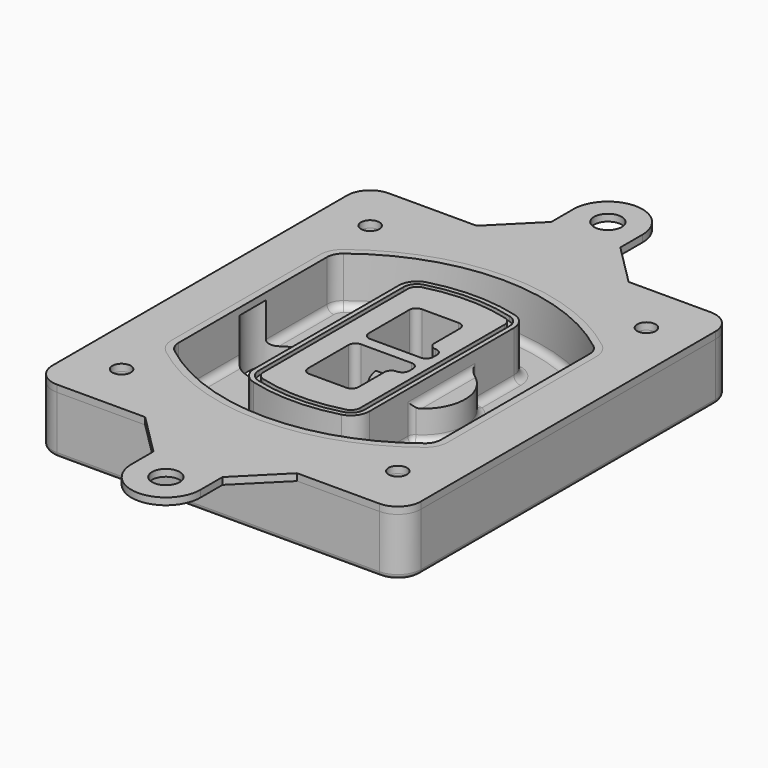
from build123d import *

# Parameters (mm, degrees)
F0_R      = 4
F1_DEPTH  = 25
F2_DEPTH  = 3
F3_DEPTH  = 18
F5_DEPTH  = 21
F6_DEPTH  = 2
F8_DEPTH  = 20
F9_DEPTH  = 16
F10_DEPTH = 25
F7_R      = 6
F7_R_2    = 4
F11_DEPTH = 6
F13_DEPTH = 9
F14_R     = 3
F15_R     = 2
F16_R     = 6
F16_R_2   = 4
F17_DEPTH = 3


with BuildPart() as f1:
    # F0 (on Top) → F1 (new body)
    with BuildSketch(Plane.XY):
        with BuildLine():
            ThreePointArc((-80, -80), (-77.0710678119, -87.0710678119), (-70, -90))
            Line((-70, -90), (70, -90))
            ThreePointArc((70, -90), (77.0710678119, -87.0710678119), (80, -80))
            Line((80, -80), (80, 80))
            ThreePointArc((80, 80), (77.0710678119, 87.0710678119), (70, 90))
            Line((70, 90), (-70, 90))
            ThreePointArc((-70, 90), (-77.0710678119, 87.0710678119), (-80, 80))
            Line((-80, 80), (-80, -80))
        make_face()
        with Locations((-60, -67.5)):
            Circle(F0_R, mode=Mode.SUBTRACT)
        with Locations((60, -67.5)):
            Circle(F0_R, mode=Mode.SUBTRACT)
        with Locations((-60, 67.5)):
            Circle(F0_R, mode=Mode.SUBTRACT)
        with BuildLine():
            ThreePointArc((-64, 40.2934422872), (-62.5820384798, 46.4328484224), (-58.6153846154, 51.3286200352))
            ThreePointArc((-58.6153846154, 51.3286200352), (0, 71.5), (58.6153846154, 51.3286200352))
            ThreePointArc((58.6153846154, 51.3286200352), (62.5820384798, 46.4328484224), (64, 40.2934422872))
            Line((64, 40.2934422872), (64, -40.2934422872))
            ThreePointArc((64, -40.2934422872), (62.5820384798, -46.4328484224), (58.6153846154, -51.3286200352))
            ThreePointArc((58.6153846154, -51.3286200352), (0, -71.5), (-58.6153846154, -51.3286200352))
            ThreePointArc((-58.6153846154, -51.3286200352), (-62.5820384798, -46.4328484224), (-64, -40.2934422872))
            Line((-64, -40.2934422872), (-64, 40.2934422872))
        make_face(mode=Mode.SUBTRACT)
        with Locations((60, 67.5)):
            Circle(F0_R, mode=Mode.SUBTRACT)
        with BuildLine():
            ThreePointArc((58.6153846154, 51.3286200352), (0, 71.5), (-58.6153846154, 51.3286200352))
            ThreePointArc((-58.6153846154, 51.3286200352), (-62.5820384798, 46.4328484224), (-64, 40.2934422872))
            Line((-64, 40.2934422872), (-64, -40.2934422872))
            ThreePointArc((-64, -40.2934422872), (-62.5820384798, -46.4328484224), (-58.6153846154, -51.3286200352))
            ThreePointArc((-58.6153846154, -51.3286200352), (0, -71.5), (58.6153846154, -51.3286200352))
            ThreePointArc((58.6153846154, -51.3286200352), (62.5820384798, -46.4328484224), (64, -40.2934422872))
            Line((64, -40.2934422872), (64, 40.2934422872))
            ThreePointArc((64, 40.2934422872), (62.5820384798, 46.4328484224), (58.6153846154, 51.3286200352))
        make_face()
        with BuildLine():
            Line((-60, -40.2934422872), (-60, 40.2934422872))
            ThreePointArc((-60, 40.2934422872), (-58.9871703427, 44.6787323838), (-56.1538461538, 48.1757121072))
            ThreePointArc((-56.1538461538, 48.1757121072), (0, 67.5), (56.1538461538, 48.1757121072))
            ThreePointArc((56.1538461538, 48.1757121072), (58.9871703427, 44.6787323838), (60, 40.2934422872))
            Line((60, 40.2934422872), (60, -40.2934422872))
            ThreePointArc((60, -40.2934422872), (58.9871703427, -44.6787323838), (56.1538461538, -48.1757121072))
            ThreePointArc((56.1538461538, -48.1757121072), (0, -67.5), (-56.1538461538, -48.1757121072))
            ThreePointArc((-56.1538461538, -48.1757121072), (-58.9871703427, -44.6787323838), (-60, -40.2934422872))
        make_face(mode=Mode.SUBTRACT)
        with BuildLine():
            ThreePointArc((-56.1538461538, 48.1757121072), (-58.9871703427, 44.6787323838), (-60, 40.2934422872))
            Line((-60, 40.2934422872), (-60, -40.2934422872))
            ThreePointArc((-60, -40.2934422872), (-58.9871703427, -44.6787323838), (-56.1538461538, -48.1757121072))
            ThreePointArc((-56.1538461538, -48.1757121072), (0, -67.5), (56.1538461538, -48.1757121072))
            ThreePointArc((56.1538461538, -48.1757121072), (58.9871703427, -44.6787323838), (60, -40.2934422872))
            Line((60, -40.2934422872), (60, 40.2934422872))
            ThreePointArc((60, 40.2934422872), (58.9871703427, 44.6787323838), (56.1538461538, 48.1757121072))
            ThreePointArc((56.1538461538, 48.1757121072), (0, 67.5), (-56.1538461538, 48.1757121072))
        make_face()
        with BuildLine():
            ThreePointArc((54.3076923077, 45.8110311612), (56.2910192399, 43.3631453548), (57, 40.2934422872))
            Line((57, 40.2934422872), (57, -40.2934422872))
            ThreePointArc((57, -40.2934422872), (56.2910192399, -43.3631453548), (54.3076923077, -45.8110311612))
            ThreePointArc((54.3076923077, -45.8110311612), (0, -64.5), (-54.3076923077, -45.8110311612))
            ThreePointArc((-54.3076923077, -45.8110311612), (-56.2910192399, -43.3631453548), (-57, -40.2934422872))
            Line((-57, -40.2934422872), (-57, 40.2934422872))
            ThreePointArc((-57, 40.2934422872), (-56.2910192399, 43.3631453548), (-54.3076923077, 45.8110311612))
            ThreePointArc((-54.3076923077, 45.8110311612), (0, 64.5), (54.3076923077, 45.8110311612))
        make_face(mode=Mode.SUBTRACT)
        with BuildLine():
            Line((57, -40.2934422872), (57, 40.2934422872))
            ThreePointArc((57, 40.2934422872), (56.2910192399, 43.3631453548), (54.3076923077, 45.8110311612))
            ThreePointArc((54.3076923077, 45.8110311612), (0, 64.5), (-54.3076923077, 45.8110311612))
            ThreePointArc((-54.3076923077, 45.8110311612), (-56.2910192399, 43.3631453548), (-57, 40.2934422872))
            Line((-57, 40.2934422872), (-57, -40.2934422872))
            ThreePointArc((-57, -40.2934422872), (-56.2910192399, -43.3631453548), (-54.3076923077, -45.8110311612))
            ThreePointArc((-54.3076923077, -45.8110311612), (0, -64.5), (54.3076923077, -45.8110311612))
            ThreePointArc((54.3076923077, -45.8110311612), (56.2910192399, -43.3631453548), (57, -40.2934422872))
        make_face()
    extrude(amount=-F1_DEPTH)

    # F0 (on Top) → F2 (join)
    with BuildSketch(Plane.XY):
        with BuildLine():
            ThreePointArc((-56.1538461538, 48.1757121072), (-58.9871703427, 44.6787323838), (-60, 40.2934422872))
            Line((-60, 40.2934422872), (-60, -40.2934422872))
            ThreePointArc((-60, -40.2934422872), (-58.9871703427, -44.6787323838), (-56.1538461538, -48.1757121072))
            ThreePointArc((-56.1538461538, -48.1757121072), (0, -67.5), (56.1538461538, -48.1757121072))
            ThreePointArc((56.1538461538, -48.1757121072), (58.9871703427, -44.6787323838), (60, -40.2934422872))
            Line((60, -40.2934422872), (60, 40.2934422872))
            ThreePointArc((60, 40.2934422872), (58.9871703427, 44.6787323838), (56.1538461538, 48.1757121072))
            ThreePointArc((56.1538461538, 48.1757121072), (0, 67.5), (-56.1538461538, 48.1757121072))
        make_face()
        with BuildLine():
            ThreePointArc((54.3076923077, 45.8110311612), (56.2910192399, 43.3631453548), (57, 40.2934422872))
            Line((57, 40.2934422872), (57, -40.2934422872))
            ThreePointArc((57, -40.2934422872), (56.2910192399, -43.3631453548), (54.3076923077, -45.8110311612))
            ThreePointArc((54.3076923077, -45.8110311612), (0, -64.5), (-54.3076923077, -45.8110311612))
            ThreePointArc((-54.3076923077, -45.8110311612), (-56.2910192399, -43.3631453548), (-57, -40.2934422872))
            Line((-57, -40.2934422872), (-57, 40.2934422872))
            ThreePointArc((-57, 40.2934422872), (-56.2910192399, 43.3631453548), (-54.3076923077, 45.8110311612))
            ThreePointArc((-54.3076923077, 45.8110311612), (0, 64.5), (54.3076923077, 45.8110311612))
        make_face(mode=Mode.SUBTRACT)
    extrude(amount=F2_DEPTH)

    # F0 (on Top) → F3 (cut)
    with BuildSketch(Plane.XY):
        with BuildLine():
            Line((57, -40.2934422872), (57, 40.2934422872))
            ThreePointArc((57, 40.2934422872), (56.2910192399, 43.3631453548), (54.3076923077, 45.8110311612))
            ThreePointArc((54.3076923077, 45.8110311612), (0, 64.5), (-54.3076923077, 45.8110311612))
            ThreePointArc((-54.3076923077, 45.8110311612), (-56.2910192399, 43.3631453548), (-57, 40.2934422872))
            Line((-57, 40.2934422872), (-57, -40.2934422872))
            ThreePointArc((-57, -40.2934422872), (-56.2910192399, -43.3631453548), (-54.3076923077, -45.8110311612))
            ThreePointArc((-54.3076923077, -45.8110311612), (0, -64.5), (54.3076923077, -45.8110311612))
            ThreePointArc((54.3076923077, -45.8110311612), (56.2910192399, -43.3631453548), (57, -40.2934422872))
        make_face()
    extrude(amount=-F3_DEPTH, mode=Mode.SUBTRACT)

    # F4 (on face) → F5 (join, through all)
    with BuildSketch(Plane.XY.offset(3)):
        with BuildLine():
            ThreePointArc((-25, -39.2465276821), (-23.3511545998, -44.1109737193), (-19.0842911877, -46.9702398883))
            ThreePointArc((-19.0842911877, -46.9702398883), (0, -49.5), (19.0842911877, -46.9702398883))
            ThreePointArc((19.0842911877, -46.9702398883), (23.3511545998, -44.1109737193), (25, -39.2465276821))
            Line((25, -39.2465276821), (25, 39.2465276821))
            ThreePointArc((25, 39.2465276821), (23.3511545998, 44.1109737193), (19.0842911877, 46.9702398883))
            ThreePointArc((19.0842911877, 46.9702398883), (0, 49.5), (-19.0842911877, 46.9702398883))
            ThreePointArc((-19.0842911877, 46.9702398883), (-23.3511545998, 44.1109737193), (-25, 39.2465276821))
            Line((-25, 39.2465276821), (-25, -39.2465276821))
        make_face()
        with BuildLine():
            ThreePointArc((18.5632183908, 45.0393118368), (21.7633659499, 42.89486221), (23, 39.2465276821))
            Line((23, 39.2465276821), (23, -39.2465276821))
            ThreePointArc((23, -39.2465276821), (21.7633659499, -42.89486221), (18.5632183908, -45.0393118368))
            ThreePointArc((18.5632183908, -45.0393118368), (0, -47.5), (-18.5632183908, -45.0393118368))
            ThreePointArc((-18.5632183908, -45.0393118368), (-21.7633659499, -42.89486221), (-23, -39.2465276821))
            Line((-23, -39.2465276821), (-23, 39.2465276821))
            ThreePointArc((-23, 39.2465276821), (-21.7633659499, 42.89486221), (-18.5632183908, 45.0393118368))
            ThreePointArc((-18.5632183908, 45.0393118368), (0, 47.5), (18.5632183908, 45.0393118368))
        make_face(mode=Mode.SUBTRACT)
        with BuildLine():
            Line((23, -39.2465276821), (23, 39.2465276821))
            ThreePointArc((23, 39.2465276821), (21.7633659499, 42.89486221), (18.5632183908, 45.0393118368))
            ThreePointArc((18.5632183908, 45.0393118368), (0, 47.5), (-18.5632183908, 45.0393118368))
            ThreePointArc((-18.5632183908, 45.0393118368), (-21.7633659499, 42.89486221), (-23, 39.2465276821))
            Line((-23, 39.2465276821), (-23, -39.2465276821))
            ThreePointArc((-23, -39.2465276821), (-21.7633659499, -42.89486221), (-18.5632183908, -45.0393118368))
            ThreePointArc((-18.5632183908, -45.0393118368), (0, -47.5), (18.5632183908, -45.0393118368))
            ThreePointArc((18.5632183908, -45.0393118368), (21.7633659499, -42.89486221), (23, -39.2465276821))
        make_face()
        with BuildLine():
            ThreePointArc((18.0421455939, 43.1083837852), (20.1755772999, 41.6787507007), (21, 39.2465276821))
            Line((21, 39.2465276821), (21, -39.2465276821))
            ThreePointArc((21, -39.2465276821), (20.1755772999, -41.6787507007), (18.0421455939, -43.1083837852))
            ThreePointArc((18.0421455939, -43.1083837852), (0, -45.5), (-18.0421455939, -43.1083837852))
            ThreePointArc((-18.0421455939, -43.1083837852), (-20.1755772999, -41.6787507007), (-21, -39.2465276821))
            Line((-21, -39.2465276821), (-21, 39.2465276821))
            ThreePointArc((-21, 39.2465276821), (-20.1755772999, 41.6787507007), (-18.0421455939, 43.1083837852))
            ThreePointArc((-18.0421455939, 43.1083837852), (0, 45.5), (18.0421455939, 43.1083837852))
        make_face(mode=Mode.SUBTRACT)
        with BuildLine():
            Line((21, -39.2465276821), (21, 39.2465276821))
            ThreePointArc((21, 39.2465276821), (20.1755772999, 41.6787507007), (18.0421455939, 43.1083837852))
            ThreePointArc((18.0421455939, 43.1083837852), (0, 45.5), (-18.0421455939, 43.1083837852))
            ThreePointArc((-18.0421455939, 43.1083837852), (-20.1755772999, 41.6787507007), (-21, 39.2465276821))
            Line((-21, 39.2465276821), (-21, -39.2465276821))
            ThreePointArc((-21, -39.2465276821), (-20.1755772999, -41.6787507007), (-18.0421455939, -43.1083837852))
            ThreePointArc((-18.0421455939, -43.1083837852), (0, -45.5), (18.0421455939, -43.1083837852))
            ThreePointArc((18.0421455939, -43.1083837852), (20.1755772999, -41.6787507007), (21, -39.2465276821))
        make_face()
        with BuildLine():
            Line((-8, -2.5), (14, -2.5))
            ThreePointArc((14, -2.5), (16.1213203436, -3.3786796564), (17, -5.5))
            Line((17, -5.5), (17, -7.5))
            ThreePointArc((17, -7.5), (16.1213203436, -9.6213203436), (14, -10.5))
            ThreePointArc((14, -10.5), (11.8786796564, -11.3786796564), (11, -13.5))
            Line((11, -13.5), (11, -27.5))
            ThreePointArc((11, -27.5), (10.1213203436, -29.6213203436), (8, -30.5))
            Line((8, -30.5), (-8, -30.5))
            ThreePointArc((-8, -30.5), (-10.1213203436, -29.6213203436), (-11, -27.5))
            Line((-11, -27.5), (-11, -5.5))
            ThreePointArc((-11, -5.5), (-10.1213203436, -3.3786796564), (-8, -2.5))
        make_face(mode=Mode.SUBTRACT)
        with BuildLine():
            ThreePointArc((-8, 2.5), (-10.1213203436, 3.3786796564), (-11, 5.5))
            Line((-11, 5.5), (-11, 27.5))
            ThreePointArc((-11, 27.5), (-10.1213203436, 29.6213203436), (-8, 30.5))
            Line((-8, 30.5), (8, 30.5))
            ThreePointArc((8, 30.5), (10.1213203436, 29.6213203436), (11, 27.5))
            Line((11, 27.5), (11, 13.5))
            ThreePointArc((11, 13.5), (11.8786796564, 11.3786796564), (14, 10.5))
            ThreePointArc((14, 10.5), (16.1213203436, 9.6213203436), (17, 7.5))
            Line((17, 7.5), (17, 5.5))
            ThreePointArc((17, 5.5), (16.1213203436, 3.3786796564), (14, 2.5))
            Line((14, 2.5), (-8, 2.5))
        make_face(mode=Mode.SUBTRACT)
    extrude(amount=-F5_DEPTH)

    # F4 (on face) → F6 (cut)
    with BuildSketch(Plane.XY.offset(3)):
        with BuildLine():
            Line((23, -39.2465276821), (23, 39.2465276821))
            ThreePointArc((23, 39.2465276821), (21.7633659499, 42.89486221), (18.5632183908, 45.0393118368))
            ThreePointArc((18.5632183908, 45.0393118368), (0, 47.5), (-18.5632183908, 45.0393118368))
            ThreePointArc((-18.5632183908, 45.0393118368), (-21.7633659499, 42.89486221), (-23, 39.2465276821))
            Line((-23, 39.2465276821), (-23, -39.2465276821))
            ThreePointArc((-23, -39.2465276821), (-21.7633659499, -42.89486221), (-18.5632183908, -45.0393118368))
            ThreePointArc((-18.5632183908, -45.0393118368), (0, -47.5), (18.5632183908, -45.0393118368))
            ThreePointArc((18.5632183908, -45.0393118368), (21.7633659499, -42.89486221), (23, -39.2465276821))
        make_face()
        with BuildLine():
            ThreePointArc((18.0421455939, 43.1083837852), (20.1755772999, 41.6787507007), (21, 39.2465276821))
            Line((21, 39.2465276821), (21, -39.2465276821))
            ThreePointArc((21, -39.2465276821), (20.1755772999, -41.6787507007), (18.0421455939, -43.1083837852))
            ThreePointArc((18.0421455939, -43.1083837852), (0, -45.5), (-18.0421455939, -43.1083837852))
            ThreePointArc((-18.0421455939, -43.1083837852), (-20.1755772999, -41.6787507007), (-21, -39.2465276821))
            Line((-21, -39.2465276821), (-21, 39.2465276821))
            ThreePointArc((-21, 39.2465276821), (-20.1755772999, 41.6787507007), (-18.0421455939, 43.1083837852))
            ThreePointArc((-18.0421455939, 43.1083837852), (0, 45.5), (18.0421455939, 43.1083837852))
        make_face(mode=Mode.SUBTRACT)
    extrude(amount=-F6_DEPTH, mode=Mode.SUBTRACT)

    # F7 (on face) → F8 (join)
    with BuildSketch(Plane(origin=(0, 0, -25), x_dir=(1, 0, 0), z_dir=(0, 0, -1))):
        with BuildLine():
            ThreePointArc((3.28842436, 0), (16.7567035675, 13.4682792075), (30.224982775, 0))
            Line((30.224982775, 0), (35.224982775, 0))
            ThreePointArc((35.224982775, 0), (16.7567035675, 18.4682792075), (-1.71157564, 0))
            Line((-1.71157564, 0), (3.28842436, 0))
        make_face()
        with BuildLine():
            Line((3.28842436, 0), (30.224982775, 0))
            ThreePointArc((30.224982775, 0), (16.7567035675, 13.4682792075), (3.28842436, 0))
        make_face()
        with BuildLine():
            ThreePointArc((3.28842436, 0), (16.7567035675, -13.4682792075), (30.224982775, 0))
            Line((30.224982775, 0), (3.28842436, 0))
        make_face()
        with BuildLine():
            Line((35.224982775, 0), (30.224982775, 0))
            ThreePointArc((30.224982775, 0), (16.7567035675, -13.4682792075), (3.28842436, 0))
            Line((3.28842436, 0), (-1.71157564, 0))
            ThreePointArc((-1.71157564, 0), (16.7567035675, -18.4682792075), (35.224982775, 0))
        make_face()
    extrude(amount=-F8_DEPTH)

    # F7 (on face) → F9 (cut)
    with BuildSketch(Plane(origin=(0, 0, -25), x_dir=(1, 0, 0), z_dir=(0, 0, -1))):
        with BuildLine():
            Line((3.28842436, 0), (30.224982775, 0))
            ThreePointArc((30.224982775, 0), (16.7567035675, 13.4682792075), (3.28842436, 0))
        make_face()
        with BuildLine():
            ThreePointArc((3.28842436, 0), (16.7567035675, -13.4682792075), (30.224982775, 0))
            Line((30.224982775, 0), (3.28842436, 0))
        make_face()
    extrude(amount=-F9_DEPTH, mode=Mode.SUBTRACT)

    # F7 (on face) → F10 (cut)
    with BuildSketch(Plane(origin=(0, 0, -25), x_dir=(1, 0, 0), z_dir=(0, 0, -1))):
        with BuildLine():
            Line((-59.0318229325, 0), (-32.0952645175, 0))
            ThreePointArc((-32.0952645175, 0), (-45.563543725, 13.4682792075), (-59.0318229325, 0))
        make_face()
        with BuildLine():
            ThreePointArc((-59.0318229325, 0), (-45.563543725, -13.4682792075), (-32.0952645175, 0))
            Line((-32.0952645175, 0), (-59.0318229325, 0))
        make_face()
    extrude(amount=-F10_DEPTH, mode=Mode.SUBTRACT)

    # F7 (on face) → F11 (cut)
    with BuildSketch(Plane(origin=(0, 0, -25), x_dir=(1, 0, 0), z_dir=(0, 0, -1))):
        with Locations((60, -67.5)):
            Circle(F7_R)
        with Locations((60, -67.5)):
            Circle(F7_R_2, mode=Mode.SUBTRACT)
        with Locations((60, -67.5)):
            Circle(F7_R)
        with Locations((60, -67.5)):
            Circle(F7_R_2, mode=Mode.SUBTRACT)
        with Locations((-60, -67.5)):
            Circle(F7_R)
        with Locations((-60, -67.5)):
            Circle(F7_R_2, mode=Mode.SUBTRACT)
        with Locations((-60, -67.5)):
            Circle(F7_R)
        with Locations((-60, -67.5)):
            Circle(F7_R_2, mode=Mode.SUBTRACT)
        with Locations((-60, 67.5)):
            Circle(F7_R)
        with Locations((-60, 67.5)):
            Circle(F7_R_2, mode=Mode.SUBTRACT)
        with Locations((-60, 67.5)):
            Circle(F7_R)
        with Locations((-60, 67.5)):
            Circle(F7_R_2, mode=Mode.SUBTRACT)
        with Locations((60, 67.5)):
            Circle(F7_R)
        with Locations((60, 67.5)):
            Circle(F7_R_2, mode=Mode.SUBTRACT)
        with Locations((60, 67.5)):
            Circle(F7_R)
        with Locations((60, 67.5)):
            Circle(F7_R_2, mode=Mode.SUBTRACT)
    extrude(amount=-F11_DEPTH, mode=Mode.SUBTRACT)

    # F12 (on face) → F13 (cut, through all)
    with BuildSketch(Plane(origin=(0, 0, -9), x_dir=(1, 0, 0), z_dir=(0, 0, -1))):
        with BuildLine():
            Line((11, 13.5), (11, 17.5481537753))
            ThreePointArc((11, 17.5481537753), (2.5696536419, 11.8239143813), (-1.5415842455, 2.5))
            Line((-1.5415842455, 2.5), (3.5224848595, 2.5))
            ThreePointArc((3.5224848595, 2.5), (6.1857188154, 8.3455872281), (11.2536447004, 12.2927168648))
            ThreePointArc((11.2536447004, 12.2927168648), (11.0640958889, 12.8831798879), (11, 13.5))
        make_face()
        with BuildLine():
            ThreePointArc((11.2536447004, -12.2927168648), (6.1857188154, -8.3455872281), (3.5224848595, -2.5))
            Line((3.5224848595, -2.5), (-1.5415842455, -2.5))
            ThreePointArc((-1.5415842455, -2.5), (2.5696536419, -11.8239143813), (11, -17.5481537753))
            Line((11, -17.5481537753), (11, -13.5))
            ThreePointArc((11, -13.5), (11.0640958889, -12.8831798879), (11.2536447004, -12.2927168648))
        make_face()
        with BuildLine():
            ThreePointArc((11.2536447004, 12.2927168648), (6.1857188154, 8.3455872281), (3.5224848595, 2.5))
            Line((3.5224848595, 2.5), (14, 2.5))
            ThreePointArc((14, 2.5), (16.1213203436, 3.3786796564), (17, 5.5))
            Line((17, 5.5), (17, 7.5))
            ThreePointArc((17, 7.5), (16.1213203436, 9.6213203436), (14, 10.5))
            ThreePointArc((14, 10.5), (12.3601599782, 10.9878446101), (11.2536447004, 12.2927168648))
        make_face()
        with BuildLine():
            Line((14, -2.5), (3.5224848595, -2.5))
            ThreePointArc((3.5224848595, -2.5), (6.1857188154, -8.3455872281), (11.2536447004, -12.2927168648))
            ThreePointArc((11.2536447004, -12.2927168648), (12.3601599782, -10.9878446101), (14, -10.5))
            ThreePointArc((14, -10.5), (16.1213203436, -9.6213203436), (17, -7.5))
            Line((17, -7.5), (17, -5.5))
            ThreePointArc((17, -5.5), (16.1213203436, -3.3786796564), (14, -2.5))
        make_face()
    extrude(amount=F13_DEPTH, mode=Mode.SUBTRACT)

    # F14
    f14_edges = [f1.edges().sort_by_distance(p)[0] for p in [
        (-57, -23.703476, -18),
        (-57, 23.703476, -18),
        (25, 0, -5),
        (25, 16.526506, -11.5),
        (25, -16.526506, -11.5),
        (25, -27.886517, -18),
        (35.224983, 0, -18),
    ]]
    fillet(f14_edges, radius=F14_R)

    # F15
    f15_edges = [f1.edges().sort_by_distance(p)[0] for p in [
        (0, -90, -25),
    ]]
    fillet(f15_edges, radius=F15_R)


with BuildPart() as f17:
    # F16 (on face) → F17 (new body, through all)
    with BuildSketch(Plane.XY):
        with BuildLine():
            Line((16.2553183436, 108), (16.2553183436, 120))
            ThreePointArc((16.2553183436, 120), (1.2553183436, 135), (-13.7446816564, 120))
            Line((-13.7446816564, 120), (-13.7446816564, 108))
            Line((-13.7446816564, 108), (-31.7446816564, 90))
            Line((-31.7446816564, 90), (34.2553183436, 90))
            Line((34.2553183436, 90), (16.2553183436, 108))
        make_face()
        with Locations((1.2553183436, 120)):
            Circle(F16_R, mode=Mode.SUBTRACT)
        with BuildLine():
            Line((16.2553183436, -108), (34.2553183436, -90))
            Line((34.2553183436, -90), (-31.7446816564, -90))
            Line((-31.7446816564, -90), (-13.7446816564, -108))
            Line((-13.7446816564, -108), (-13.7446816564, -120))
            ThreePointArc((-13.7446816564, -120), (1.2553183436, -135), (16.2553183436, -120))
            Line((16.2553183436, -120), (16.2553183436, -108))
        make_face()
        with Locations((1.2553183436, -120)):
            Circle(F16_R, mode=Mode.SUBTRACT)
        with BuildLine():
            Line((70, 90), (34.2553183436, 90))
            Line((34.2553183436, 90), (-31.7446816564, 90))
            Line((-31.7446816564, 90), (-70, 90))
            ThreePointArc((-70, 90), (-77.0710678119, 87.0710678119), (-80, 80))
            Line((-80, 80), (-80, -80))
            ThreePointArc((-80, -80), (-77.0710678119, -87.0710678119), (-70, -90))
            Line((-70, -90), (-31.7446816564, -90))
            Line((-31.7446816564, -90), (34.2553183436, -90))
            Line((34.2553183436, -90), (70, -90))
            ThreePointArc((70, -90), (77.0710678119, -87.0710678119), (80, -80))
            Line((80, -80), (80, 80))
            ThreePointArc((80, 80), (77.0710678119, 87.0710678119), (70, 90))
        make_face()
        with Locations((-60, -67.5)):
            Circle(F16_R_2, mode=Mode.SUBTRACT)
        with Locations((60, -67.5)):
            Circle(F16_R_2, mode=Mode.SUBTRACT)
        with Locations((-60, 67.5)):
            Circle(F16_R_2, mode=Mode.SUBTRACT)
        with BuildLine():
            ThreePointArc((-60, 40.2934422872), (-58.9871703427, 44.6787323838), (-56.1538461538, 48.1757121072))
            ThreePointArc((-56.1538461538, 48.1757121072), (0, 67.5), (56.1538461538, 48.1757121072))
            ThreePointArc((56.1538461538, 48.1757121072), (58.9871703427, 44.6787323838), (60, 40.2934422872))
            Line((60, 40.2934422872), (60, -40.2934422872))
            ThreePointArc((60, -40.2934422872), (58.9871703427, -44.6787323838), (56.1538461538, -48.1757121072))
            ThreePointArc((56.1538461538, -48.1757121072), (0, -67.5), (-56.1538461538, -48.1757121072))
            ThreePointArc((-56.1538461538, -48.1757121072), (-58.9871703427, -44.6787323838), (-60, -40.2934422872))
            Line((-60, -40.2934422872), (-60, 40.2934422872))
        make_face(mode=Mode.SUBTRACT)
        with Locations((60, 67.5)):
            Circle(F16_R_2, mode=Mode.SUBTRACT)
    extrude(amount=F17_DEPTH)


solid = Compound([f1.part, f17.part])
